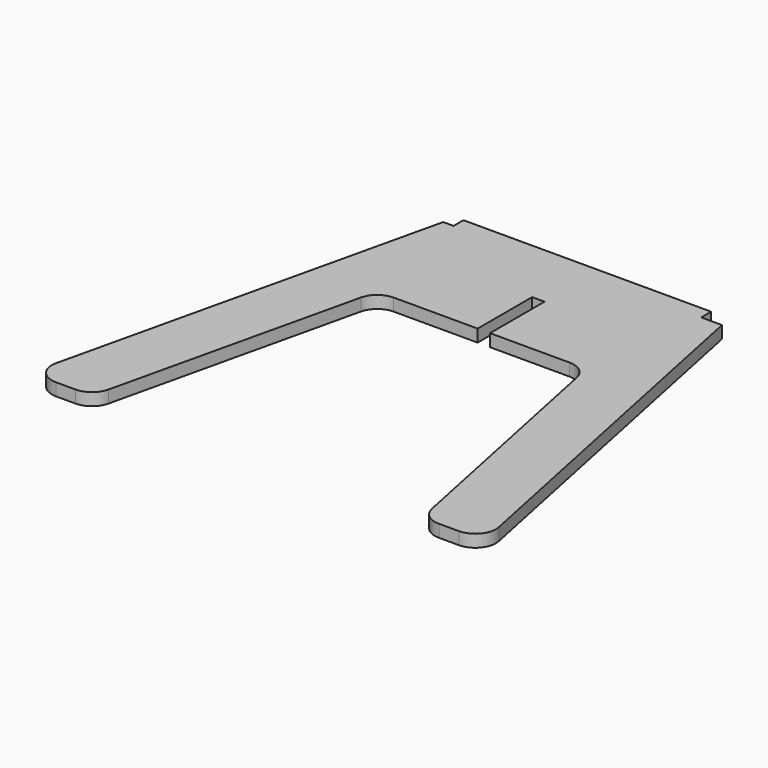
from build123d import *

# Parameters (mm, degrees)
F1_DEPTH = 3


with BuildPart() as f1:
    # F0 (on Top) → F1 (new body)
    with BuildSketch(Plane.XY):
        with BuildLine():
            Line((28.674154, 50.110632), (-31.325846, 50.110632))
            Line((-31.325846, 50.110632), (-31.325846, 47.110632))
            Line((-31.325846, 47.110632), (-33.840805, 47.110632))
            Line((-33.840805, 47.110632), (-54.905096, -43.760283))
            ThreePointArc((-54.905096, -43.760283), (-53.948671, -48.000202), (-50.034247, -49.889368))
            Line((-50.034247, -49.889368), (-45.299399, -49.889368))
            ThreePointArc((-45.299399, -49.889368), (-42.188565, -48.803792), (-40.42855, -46.018453))
            Line((-40.42855, -46.018453), (-26.692237, 13.239717))
            ThreePointArc((-26.692237, 13.239717), (-24.932222, 16.025056), (-21.821388, 17.110632))
            Line((-21.821388, 17.110632), (-1.5, 17.110632))
            Line((-1.5, 17.110632), (-1.5, 33.610632))
            Line((-1.5, 33.610632), (1.5, 33.610632))
            Line((1.5, 33.610632), (1.5, 17.110632))
            Line((1.5, 17.110632), (20.785474, 17.110632))
            ThreePointArc((20.785474, 17.110632), (23.94392, 15.986741), (25.682466, 13.120321))
            Line((25.682466, 13.120321), (37.85141, -45.899057))
            ThreePointArc((37.85141, -45.899057), (39.589956, -48.765477), (42.748401, -49.889368))
            Line((42.748401, -49.889368), (47.538051, -49.889368))
            ThreePointArc((47.538051, -49.889368), (51.414161, -48.047813), (52.435043, -43.879679))
            Line((52.435043, -43.879679), (33.674154, 47.110632))
            Line((33.674154, 47.110632), (28.674154, 47.110632))
            Line((28.674154, 47.110632), (28.674154, 50.110632))
        make_face()
    extrude(amount=F1_DEPTH)


solid = f1.part
